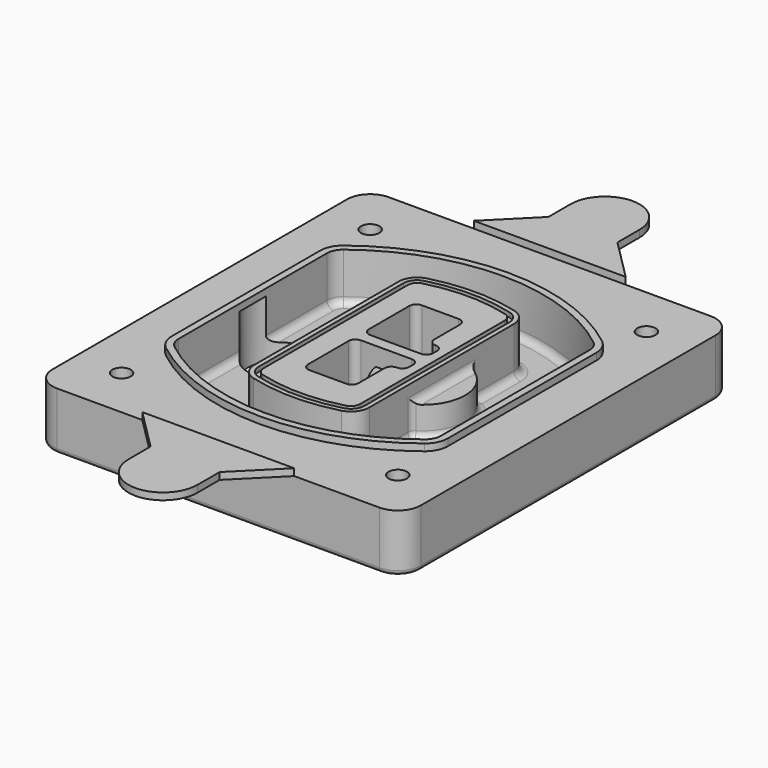
from build123d import *

# Parameters (mm, degrees)
F0_R      = 4
F1_DEPTH  = 25
F2_DEPTH  = 3
F3_DEPTH  = 18
F5_DEPTH  = 21
F6_DEPTH  = 2
F8_DEPTH  = 20
F9_DEPTH  = 16
F10_DEPTH = 25
F7_R      = 6
F7_R_2    = 4
F11_DEPTH = 6
F13_DEPTH = 9
F14_R     = 3
F15_R     = 2
F16_R     = 6
F17_DEPTH = 3


with BuildPart() as f1:
    # F0 (on Top) → F1 (new body)
    with BuildSketch(Plane.XY):
        with BuildLine():
            ThreePointArc((-80, -80), (-77.0710678119, -87.0710678119), (-70, -90))
            Line((-70, -90), (70, -90))
            ThreePointArc((70, -90), (77.0710678119, -87.0710678119), (80, -80))
            Line((80, -80), (80, 80))
            ThreePointArc((80, 80), (77.0710678119, 87.0710678119), (70, 90))
            Line((70, 90), (-70, 90))
            ThreePointArc((-70, 90), (-77.0710678119, 87.0710678119), (-80, 80))
            Line((-80, 80), (-80, -80))
        make_face()
        with Locations((-60, -67.5)):
            Circle(F0_R, mode=Mode.SUBTRACT)
        with Locations((60, -67.5)):
            Circle(F0_R, mode=Mode.SUBTRACT)
        with Locations((-60, 67.5)):
            Circle(F0_R, mode=Mode.SUBTRACT)
        with BuildLine():
            ThreePointArc((-64, 40.2934422872), (-62.5820384798, 46.4328484224), (-58.6153846154, 51.3286200352))
            ThreePointArc((-58.6153846154, 51.3286200352), (0, 71.5), (58.6153846154, 51.3286200352))
            ThreePointArc((58.6153846154, 51.3286200352), (62.5820384798, 46.4328484224), (64, 40.2934422872))
            Line((64, 40.2934422872), (64, -40.2934422872))
            ThreePointArc((64, -40.2934422872), (62.5820384798, -46.4328484224), (58.6153846154, -51.3286200352))
            ThreePointArc((58.6153846154, -51.3286200352), (0, -71.5), (-58.6153846154, -51.3286200352))
            ThreePointArc((-58.6153846154, -51.3286200352), (-62.5820384798, -46.4328484224), (-64, -40.2934422872))
            Line((-64, -40.2934422872), (-64, 40.2934422872))
        make_face(mode=Mode.SUBTRACT)
        with Locations((60, 67.5)):
            Circle(F0_R, mode=Mode.SUBTRACT)
        with BuildLine():
            ThreePointArc((58.6153846154, 51.3286200352), (0, 71.5), (-58.6153846154, 51.3286200352))
            ThreePointArc((-58.6153846154, 51.3286200352), (-62.5820384798, 46.4328484224), (-64, 40.2934422872))
            Line((-64, 40.2934422872), (-64, -40.2934422872))
            ThreePointArc((-64, -40.2934422872), (-62.5820384798, -46.4328484224), (-58.6153846154, -51.3286200352))
            ThreePointArc((-58.6153846154, -51.3286200352), (0, -71.5), (58.6153846154, -51.3286200352))
            ThreePointArc((58.6153846154, -51.3286200352), (62.5820384798, -46.4328484224), (64, -40.2934422872))
            Line((64, -40.2934422872), (64, 40.2934422872))
            ThreePointArc((64, 40.2934422872), (62.5820384798, 46.4328484224), (58.6153846154, 51.3286200352))
        make_face()
        with BuildLine():
            Line((-60, -40.2934422872), (-60, 40.2934422872))
            ThreePointArc((-60, 40.2934422872), (-58.9871703427, 44.6787323838), (-56.1538461538, 48.1757121072))
            ThreePointArc((-56.1538461538, 48.1757121072), (0, 67.5), (56.1538461538, 48.1757121072))
            ThreePointArc((56.1538461538, 48.1757121072), (58.9871703427, 44.6787323838), (60, 40.2934422872))
            Line((60, 40.2934422872), (60, -40.2934422872))
            ThreePointArc((60, -40.2934422872), (58.9871703427, -44.6787323838), (56.1538461538, -48.1757121072))
            ThreePointArc((56.1538461538, -48.1757121072), (0, -67.5), (-56.1538461538, -48.1757121072))
            ThreePointArc((-56.1538461538, -48.1757121072), (-58.9871703427, -44.6787323838), (-60, -40.2934422872))
        make_face(mode=Mode.SUBTRACT)
        with BuildLine():
            ThreePointArc((-56.1538461538, 48.1757121072), (-58.9871703427, 44.6787323838), (-60, 40.2934422872))
            Line((-60, 40.2934422872), (-60, -40.2934422872))
            ThreePointArc((-60, -40.2934422872), (-58.9871703427, -44.6787323838), (-56.1538461538, -48.1757121072))
            ThreePointArc((-56.1538461538, -48.1757121072), (0, -67.5), (56.1538461538, -48.1757121072))
            ThreePointArc((56.1538461538, -48.1757121072), (58.9871703427, -44.6787323838), (60, -40.2934422872))
            Line((60, -40.2934422872), (60, 40.2934422872))
            ThreePointArc((60, 40.2934422872), (58.9871703427, 44.6787323838), (56.1538461538, 48.1757121072))
            ThreePointArc((56.1538461538, 48.1757121072), (0, 67.5), (-56.1538461538, 48.1757121072))
        make_face()
        with BuildLine():
            ThreePointArc((54.3076923077, 45.8110311612), (56.2910192399, 43.3631453548), (57, 40.2934422872))
            Line((57, 40.2934422872), (57, -40.2934422872))
            ThreePointArc((57, -40.2934422872), (56.2910192399, -43.3631453548), (54.3076923077, -45.8110311612))
            ThreePointArc((54.3076923077, -45.8110311612), (0, -64.5), (-54.3076923077, -45.8110311612))
            ThreePointArc((-54.3076923077, -45.8110311612), (-56.2910192399, -43.3631453548), (-57, -40.2934422872))
            Line((-57, -40.2934422872), (-57, 40.2934422872))
            ThreePointArc((-57, 40.2934422872), (-56.2910192399, 43.3631453548), (-54.3076923077, 45.8110311612))
            ThreePointArc((-54.3076923077, 45.8110311612), (0, 64.5), (54.3076923077, 45.8110311612))
        make_face(mode=Mode.SUBTRACT)
        with BuildLine():
            Line((57, -40.2934422872), (57, 40.2934422872))
            ThreePointArc((57, 40.2934422872), (56.2910192399, 43.3631453548), (54.3076923077, 45.8110311612))
            ThreePointArc((54.3076923077, 45.8110311612), (0, 64.5), (-54.3076923077, 45.8110311612))
            ThreePointArc((-54.3076923077, 45.8110311612), (-56.2910192399, 43.3631453548), (-57, 40.2934422872))
            Line((-57, 40.2934422872), (-57, -40.2934422872))
            ThreePointArc((-57, -40.2934422872), (-56.2910192399, -43.3631453548), (-54.3076923077, -45.8110311612))
            ThreePointArc((-54.3076923077, -45.8110311612), (0, -64.5), (54.3076923077, -45.8110311612))
            ThreePointArc((54.3076923077, -45.8110311612), (56.2910192399, -43.3631453548), (57, -40.2934422872))
        make_face()
    extrude(amount=-F1_DEPTH)

    # F0 (on Top) → F2 (join)
    with BuildSketch(Plane.XY):
        with BuildLine():
            ThreePointArc((-56.1538461538, 48.1757121072), (-58.9871703427, 44.6787323838), (-60, 40.2934422872))
            Line((-60, 40.2934422872), (-60, -40.2934422872))
            ThreePointArc((-60, -40.2934422872), (-58.9871703427, -44.6787323838), (-56.1538461538, -48.1757121072))
            ThreePointArc((-56.1538461538, -48.1757121072), (0, -67.5), (56.1538461538, -48.1757121072))
            ThreePointArc((56.1538461538, -48.1757121072), (58.9871703427, -44.6787323838), (60, -40.2934422872))
            Line((60, -40.2934422872), (60, 40.2934422872))
            ThreePointArc((60, 40.2934422872), (58.9871703427, 44.6787323838), (56.1538461538, 48.1757121072))
            ThreePointArc((56.1538461538, 48.1757121072), (0, 67.5), (-56.1538461538, 48.1757121072))
        make_face()
        with BuildLine():
            ThreePointArc((54.3076923077, 45.8110311612), (56.2910192399, 43.3631453548), (57, 40.2934422872))
            Line((57, 40.2934422872), (57, -40.2934422872))
            ThreePointArc((57, -40.2934422872), (56.2910192399, -43.3631453548), (54.3076923077, -45.8110311612))
            ThreePointArc((54.3076923077, -45.8110311612), (0, -64.5), (-54.3076923077, -45.8110311612))
            ThreePointArc((-54.3076923077, -45.8110311612), (-56.2910192399, -43.3631453548), (-57, -40.2934422872))
            Line((-57, -40.2934422872), (-57, 40.2934422872))
            ThreePointArc((-57, 40.2934422872), (-56.2910192399, 43.3631453548), (-54.3076923077, 45.8110311612))
            ThreePointArc((-54.3076923077, 45.8110311612), (0, 64.5), (54.3076923077, 45.8110311612))
        make_face(mode=Mode.SUBTRACT)
    extrude(amount=F2_DEPTH)

    # F0 (on Top) → F3 (cut)
    with BuildSketch(Plane.XY):
        with BuildLine():
            Line((57, -40.2934422872), (57, 40.2934422872))
            ThreePointArc((57, 40.2934422872), (56.2910192399, 43.3631453548), (54.3076923077, 45.8110311612))
            ThreePointArc((54.3076923077, 45.8110311612), (0, 64.5), (-54.3076923077, 45.8110311612))
            ThreePointArc((-54.3076923077, 45.8110311612), (-56.2910192399, 43.3631453548), (-57, 40.2934422872))
            Line((-57, 40.2934422872), (-57, -40.2934422872))
            ThreePointArc((-57, -40.2934422872), (-56.2910192399, -43.3631453548), (-54.3076923077, -45.8110311612))
            ThreePointArc((-54.3076923077, -45.8110311612), (0, -64.5), (54.3076923077, -45.8110311612))
            ThreePointArc((54.3076923077, -45.8110311612), (56.2910192399, -43.3631453548), (57, -40.2934422872))
        make_face()
    extrude(amount=-F3_DEPTH, mode=Mode.SUBTRACT)

    # F4 (on face) → F5 (join, through all)
    with BuildSketch(Plane.XY.offset(3)):
        with BuildLine():
            ThreePointArc((-25, -39.2465276821), (-23.3511545998, -44.1109737193), (-19.0842911877, -46.9702398883))
            ThreePointArc((-19.0842911877, -46.9702398883), (0, -49.5), (19.0842911877, -46.9702398883))
            ThreePointArc((19.0842911877, -46.9702398883), (23.3511545998, -44.1109737193), (25, -39.2465276821))
            Line((25, -39.2465276821), (25, 39.2465276821))
            ThreePointArc((25, 39.2465276821), (23.3511545998, 44.1109737193), (19.0842911877, 46.9702398883))
            ThreePointArc((19.0842911877, 46.9702398883), (0, 49.5), (-19.0842911877, 46.9702398883))
            ThreePointArc((-19.0842911877, 46.9702398883), (-23.3511545998, 44.1109737193), (-25, 39.2465276821))
            Line((-25, 39.2465276821), (-25, -39.2465276821))
        make_face()
        with BuildLine():
            ThreePointArc((18.5632183908, 45.0393118368), (21.7633659499, 42.89486221), (23, 39.2465276821))
            Line((23, 39.2465276821), (23, -39.2465276821))
            ThreePointArc((23, -39.2465276821), (21.7633659499, -42.89486221), (18.5632183908, -45.0393118368))
            ThreePointArc((18.5632183908, -45.0393118368), (0, -47.5), (-18.5632183908, -45.0393118368))
            ThreePointArc((-18.5632183908, -45.0393118368), (-21.7633659499, -42.89486221), (-23, -39.2465276821))
            Line((-23, -39.2465276821), (-23, 39.2465276821))
            ThreePointArc((-23, 39.2465276821), (-21.7633659499, 42.89486221), (-18.5632183908, 45.0393118368))
            ThreePointArc((-18.5632183908, 45.0393118368), (0, 47.5), (18.5632183908, 45.0393118368))
        make_face(mode=Mode.SUBTRACT)
        with BuildLine():
            Line((23, -39.2465276821), (23, 39.2465276821))
            ThreePointArc((23, 39.2465276821), (21.7633659499, 42.89486221), (18.5632183908, 45.0393118368))
            ThreePointArc((18.5632183908, 45.0393118368), (0, 47.5), (-18.5632183908, 45.0393118368))
            ThreePointArc((-18.5632183908, 45.0393118368), (-21.7633659499, 42.89486221), (-23, 39.2465276821))
            Line((-23, 39.2465276821), (-23, -39.2465276821))
            ThreePointArc((-23, -39.2465276821), (-21.7633659499, -42.89486221), (-18.5632183908, -45.0393118368))
            ThreePointArc((-18.5632183908, -45.0393118368), (0, -47.5), (18.5632183908, -45.0393118368))
            ThreePointArc((18.5632183908, -45.0393118368), (21.7633659499, -42.89486221), (23, -39.2465276821))
        make_face()
        with BuildLine():
            ThreePointArc((18.0421455939, 43.1083837852), (20.1755772999, 41.6787507007), (21, 39.2465276821))
            Line((21, 39.2465276821), (21, -39.2465276821))
            ThreePointArc((21, -39.2465276821), (20.1755772999, -41.6787507007), (18.0421455939, -43.1083837852))
            ThreePointArc((18.0421455939, -43.1083837852), (0, -45.5), (-18.0421455939, -43.1083837852))
            ThreePointArc((-18.0421455939, -43.1083837852), (-20.1755772999, -41.6787507007), (-21, -39.2465276821))
            Line((-21, -39.2465276821), (-21, 39.2465276821))
            ThreePointArc((-21, 39.2465276821), (-20.1755772999, 41.6787507007), (-18.0421455939, 43.1083837852))
            ThreePointArc((-18.0421455939, 43.1083837852), (0, 45.5), (18.0421455939, 43.1083837852))
        make_face(mode=Mode.SUBTRACT)
        with BuildLine():
            Line((21, -39.2465276821), (21, 39.2465276821))
            ThreePointArc((21, 39.2465276821), (20.1755772999, 41.6787507007), (18.0421455939, 43.1083837852))
            ThreePointArc((18.0421455939, 43.1083837852), (0, 45.5), (-18.0421455939, 43.1083837852))
            ThreePointArc((-18.0421455939, 43.1083837852), (-20.1755772999, 41.6787507007), (-21, 39.2465276821))
            Line((-21, 39.2465276821), (-21, -39.2465276821))
            ThreePointArc((-21, -39.2465276821), (-20.1755772999, -41.6787507007), (-18.0421455939, -43.1083837852))
            ThreePointArc((-18.0421455939, -43.1083837852), (0, -45.5), (18.0421455939, -43.1083837852))
            ThreePointArc((18.0421455939, -43.1083837852), (20.1755772999, -41.6787507007), (21, -39.2465276821))
        make_face()
        with BuildLine():
            Line((-8, -2.5), (14, -2.5))
            ThreePointArc((14, -2.5), (16.1213203436, -3.3786796564), (17, -5.5))
            Line((17, -5.5), (17, -7.5))
            ThreePointArc((17, -7.5), (16.1213203436, -9.6213203436), (14, -10.5))
            ThreePointArc((14, -10.5), (11.8786796564, -11.3786796564), (11, -13.5))
            Line((11, -13.5), (11, -27.5))
            ThreePointArc((11, -27.5), (10.1213203436, -29.6213203436), (8, -30.5))
            Line((8, -30.5), (-8, -30.5))
            ThreePointArc((-8, -30.5), (-10.1213203436, -29.6213203436), (-11, -27.5))
            Line((-11, -27.5), (-11, -5.5))
            ThreePointArc((-11, -5.5), (-10.1213203436, -3.3786796564), (-8, -2.5))
        make_face(mode=Mode.SUBTRACT)
        with BuildLine():
            ThreePointArc((-8, 2.5), (-10.1213203436, 3.3786796564), (-11, 5.5))
            Line((-11, 5.5), (-11, 27.5))
            ThreePointArc((-11, 27.5), (-10.1213203436, 29.6213203436), (-8, 30.5))
            Line((-8, 30.5), (8, 30.5))
            ThreePointArc((8, 30.5), (10.1213203436, 29.6213203436), (11, 27.5))
            Line((11, 27.5), (11, 13.5))
            ThreePointArc((11, 13.5), (11.8786796564, 11.3786796564), (14, 10.5))
            ThreePointArc((14, 10.5), (16.1213203436, 9.6213203436), (17, 7.5))
            Line((17, 7.5), (17, 5.5))
            ThreePointArc((17, 5.5), (16.1213203436, 3.3786796564), (14, 2.5))
            Line((14, 2.5), (-8, 2.5))
        make_face(mode=Mode.SUBTRACT)
    extrude(amount=-F5_DEPTH)

    # F4 (on face) → F6 (cut)
    with BuildSketch(Plane.XY.offset(3)):
        with BuildLine():
            Line((23, -39.2465276821), (23, 39.2465276821))
            ThreePointArc((23, 39.2465276821), (21.7633659499, 42.89486221), (18.5632183908, 45.0393118368))
            ThreePointArc((18.5632183908, 45.0393118368), (0, 47.5), (-18.5632183908, 45.0393118368))
            ThreePointArc((-18.5632183908, 45.0393118368), (-21.7633659499, 42.89486221), (-23, 39.2465276821))
            Line((-23, 39.2465276821), (-23, -39.2465276821))
            ThreePointArc((-23, -39.2465276821), (-21.7633659499, -42.89486221), (-18.5632183908, -45.0393118368))
            ThreePointArc((-18.5632183908, -45.0393118368), (0, -47.5), (18.5632183908, -45.0393118368))
            ThreePointArc((18.5632183908, -45.0393118368), (21.7633659499, -42.89486221), (23, -39.2465276821))
        make_face()
        with BuildLine():
            ThreePointArc((18.0421455939, 43.1083837852), (20.1755772999, 41.6787507007), (21, 39.2465276821))
            Line((21, 39.2465276821), (21, -39.2465276821))
            ThreePointArc((21, -39.2465276821), (20.1755772999, -41.6787507007), (18.0421455939, -43.1083837852))
            ThreePointArc((18.0421455939, -43.1083837852), (0, -45.5), (-18.0421455939, -43.1083837852))
            ThreePointArc((-18.0421455939, -43.1083837852), (-20.1755772999, -41.6787507007), (-21, -39.2465276821))
            Line((-21, -39.2465276821), (-21, 39.2465276821))
            ThreePointArc((-21, 39.2465276821), (-20.1755772999, 41.6787507007), (-18.0421455939, 43.1083837852))
            ThreePointArc((-18.0421455939, 43.1083837852), (0, 45.5), (18.0421455939, 43.1083837852))
        make_face(mode=Mode.SUBTRACT)
    extrude(amount=-F6_DEPTH, mode=Mode.SUBTRACT)

    # F7 (on face) → F8 (join)
    with BuildSketch(Plane(origin=(0, 0, -25), x_dir=(1, 0, 0), z_dir=(0, 0, -1))):
        with BuildLine():
            ThreePointArc((3.28842436, 0), (16.7567035675, 13.4682792075), (30.224982775, 0))
            Line((30.224982775, 0), (35.224982775, 0))
            ThreePointArc((35.224982775, 0), (16.7567035675, 18.4682792075), (-1.71157564, 0))
            Line((-1.71157564, 0), (3.28842436, 0))
        make_face()
        with BuildLine():
            Line((3.28842436, 0), (30.224982775, 0))
            ThreePointArc((30.224982775, 0), (16.7567035675, 13.4682792075), (3.28842436, 0))
        make_face()
        with BuildLine():
            ThreePointArc((3.28842436, 0), (16.7567035675, -13.4682792075), (30.224982775, 0))
            Line((30.224982775, 0), (3.28842436, 0))
        make_face()
        with BuildLine():
            Line((35.224982775, 0), (30.224982775, 0))
            ThreePointArc((30.224982775, 0), (16.7567035675, -13.4682792075), (3.28842436, 0))
            Line((3.28842436, 0), (-1.71157564, 0))
            ThreePointArc((-1.71157564, 0), (16.7567035675, -18.4682792075), (35.224982775, 0))
        make_face()
    extrude(amount=-F8_DEPTH)

    # F7 (on face) → F9 (cut)
    with BuildSketch(Plane(origin=(0, 0, -25), x_dir=(1, 0, 0), z_dir=(0, 0, -1))):
        with BuildLine():
            Line((3.28842436, 0), (30.224982775, 0))
            ThreePointArc((30.224982775, 0), (16.7567035675, 13.4682792075), (3.28842436, 0))
        make_face()
        with BuildLine():
            ThreePointArc((3.28842436, 0), (16.7567035675, -13.4682792075), (30.224982775, 0))
            Line((30.224982775, 0), (3.28842436, 0))
        make_face()
    extrude(amount=-F9_DEPTH, mode=Mode.SUBTRACT)

    # F7 (on face) → F10 (cut)
    with BuildSketch(Plane(origin=(0, 0, -25), x_dir=(1, 0, 0), z_dir=(0, 0, -1))):
        with BuildLine():
            Line((-59.0318229325, 0), (-32.0952645175, 0))
            ThreePointArc((-32.0952645175, 0), (-45.563543725, 13.4682792075), (-59.0318229325, 0))
        make_face()
        with BuildLine():
            ThreePointArc((-59.0318229325, 0), (-45.563543725, -13.4682792075), (-32.0952645175, 0))
            Line((-32.0952645175, 0), (-59.0318229325, 0))
        make_face()
    extrude(amount=-F10_DEPTH, mode=Mode.SUBTRACT)

    # F7 (on face) → F11 (cut)
    with BuildSketch(Plane(origin=(0, 0, -25), x_dir=(1, 0, 0), z_dir=(0, 0, -1))):
        with Locations((60, -67.5)):
            Circle(F7_R)
        with Locations((60, -67.5)):
            Circle(F7_R_2, mode=Mode.SUBTRACT)
        with Locations((60, -67.5)):
            Circle(F7_R)
        with Locations((60, -67.5)):
            Circle(F7_R_2, mode=Mode.SUBTRACT)
        with Locations((-60, -67.5)):
            Circle(F7_R)
        with Locations((-60, -67.5)):
            Circle(F7_R_2, mode=Mode.SUBTRACT)
        with Locations((-60, -67.5)):
            Circle(F7_R)
        with Locations((-60, -67.5)):
            Circle(F7_R_2, mode=Mode.SUBTRACT)
        with Locations((-60, 67.5)):
            Circle(F7_R)
        with Locations((-60, 67.5)):
            Circle(F7_R_2, mode=Mode.SUBTRACT)
        with Locations((-60, 67.5)):
            Circle(F7_R)
        with Locations((-60, 67.5)):
            Circle(F7_R_2, mode=Mode.SUBTRACT)
        with Locations((60, 67.5)):
            Circle(F7_R)
        with Locations((60, 67.5)):
            Circle(F7_R_2, mode=Mode.SUBTRACT)
        with Locations((60, 67.5)):
            Circle(F7_R)
        with Locations((60, 67.5)):
            Circle(F7_R_2, mode=Mode.SUBTRACT)
    extrude(amount=-F11_DEPTH, mode=Mode.SUBTRACT)

    # F12 (on face) → F13 (cut, through all)
    with BuildSketch(Plane(origin=(0, 0, -9), x_dir=(1, 0, 0), z_dir=(0, 0, -1))):
        with BuildLine():
            Line((11, 13.5), (11, 17.5481537753))
            ThreePointArc((11, 17.5481537753), (2.5696536419, 11.8239143813), (-1.5415842455, 2.5))
            Line((-1.5415842455, 2.5), (3.5224848595, 2.5))
            ThreePointArc((3.5224848595, 2.5), (6.1857188154, 8.3455872281), (11.2536447004, 12.2927168648))
            ThreePointArc((11.2536447004, 12.2927168648), (11.0640958889, 12.8831798879), (11, 13.5))
        make_face()
        with BuildLine():
            ThreePointArc((11.2536447004, -12.2927168648), (6.1857188154, -8.3455872281), (3.5224848595, -2.5))
            Line((3.5224848595, -2.5), (-1.5415842455, -2.5))
            ThreePointArc((-1.5415842455, -2.5), (2.5696536419, -11.8239143813), (11, -17.5481537753))
            Line((11, -17.5481537753), (11, -13.5))
            ThreePointArc((11, -13.5), (11.0640958889, -12.8831798879), (11.2536447004, -12.2927168648))
        make_face()
        with BuildLine():
            ThreePointArc((11.2536447004, 12.2927168648), (6.1857188154, 8.3455872281), (3.5224848595, 2.5))
            Line((3.5224848595, 2.5), (14, 2.5))
            ThreePointArc((14, 2.5), (16.1213203436, 3.3786796564), (17, 5.5))
            Line((17, 5.5), (17, 7.5))
            ThreePointArc((17, 7.5), (16.1213203436, 9.6213203436), (14, 10.5))
            ThreePointArc((14, 10.5), (12.3601599782, 10.9878446101), (11.2536447004, 12.2927168648))
        make_face()
        with BuildLine():
            Line((14, -2.5), (3.5224848595, -2.5))
            ThreePointArc((3.5224848595, -2.5), (6.1857188154, -8.3455872281), (11.2536447004, -12.2927168648))
            ThreePointArc((11.2536447004, -12.2927168648), (12.3601599782, -10.9878446101), (14, -10.5))
            ThreePointArc((14, -10.5), (16.1213203436, -9.6213203436), (17, -7.5))
            Line((17, -7.5), (17, -5.5))
            ThreePointArc((17, -5.5), (16.1213203436, -3.3786796564), (14, -2.5))
        make_face()
    extrude(amount=F13_DEPTH, mode=Mode.SUBTRACT)

    # F14
    f14_edges = [f1.edges().sort_by_distance(p)[0] for p in [
        (-57, -23.703476, -18),
        (-57, 23.703476, -18),
        (25, 0, -5),
        (25, 16.526506, -11.5),
        (25, -16.526506, -11.5),
        (25, -27.886517, -18),
        (35.224983, 0, -18),
    ]]
    fillet(f14_edges, radius=F14_R)

    # F15
    f15_edges = [f1.edges().sort_by_distance(p)[0] for p in [
        (0, -90, -25),
    ]]
    fillet(f15_edges, radius=F15_R)


with BuildPart() as f17:
    # F16 (on face) → F17 (new body, through all)
    with BuildSketch(Plane.XY):
        with BuildLine():
            Line((-15, 108), (-33, 90))
            Line((-33, 90), (33, 90))
            Line((33, 90), (15, 108))
            Line((15, 108), (15, 120))
            ThreePointArc((15, 120), (0, 135), (-15, 120))
            Line((-15, 120), (-15, 108))
        make_face()
        with Locations((0, 120)):
            Circle(F16_R, mode=Mode.SUBTRACT)
        with Locations((0, 120)):
            Circle(F16_R)
    extrude(amount=F17_DEPTH)


with BuildPart() as f17b:
    # F16 (on face) → F17, piece 2 (new body, through all)
    with BuildSketch(Plane.XY):
        with BuildLine():
            Line((33, -90), (-33, -90))
            Line((-33, -90), (-15, -108))
            Line((-15, -108), (-15, -120))
            ThreePointArc((-15, -120), (0, -135), (15, -120))
            Line((15, -120), (15, -108))
            Line((15, -108), (33, -90))
        make_face()
        with Locations((0, -120)):
            Circle(F16_R, mode=Mode.SUBTRACT)
        with Locations((0, -120)):
            Circle(F16_R)
    extrude(amount=F17_DEPTH)


solid = Compound([f1.part, f17.part, f17b.part])
